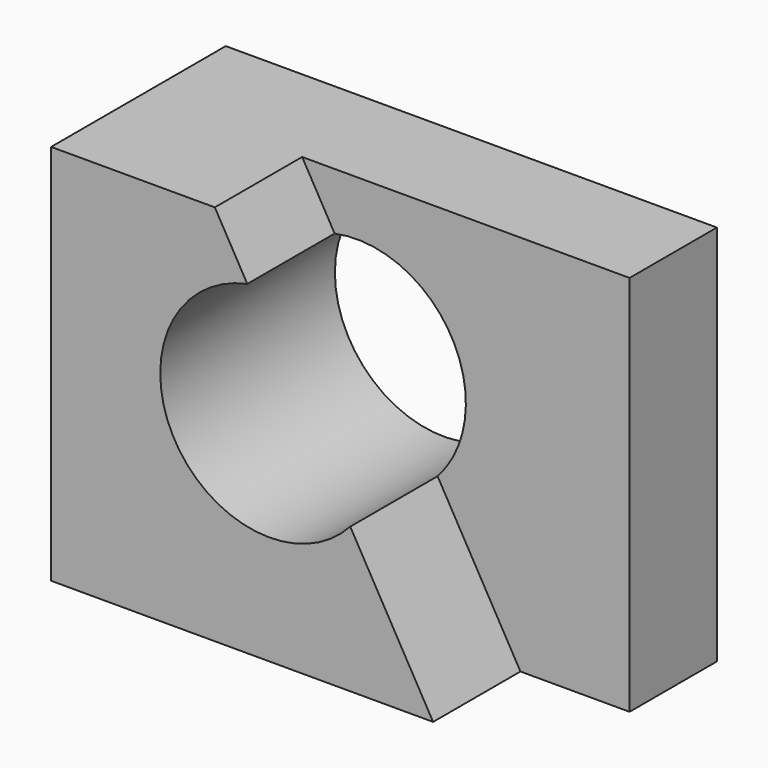
from build123d import *

# Parameters (mm, degrees)
F0_W     = 114.3
F0_H     = 88.9
F1_DEPTH = 50.8
F3_DEPTH = 25.4
F4_R     = 25.4
F5_DEPTH = 50.8


with BuildPart() as f1:
    # F0 (on Front) → F1 (new body)
    with BuildSketch(Plane.XZ):
        with Locations((18.630486, 6.014819)):
            Rectangle(F0_W, F0_H)
    extrude(amount=F1_DEPTH)

    # F2 (on face) → F3 (cut)
    with BuildSketch(Plane.XZ.offset(50.8)):
        Polygon((75.780486, 50.464819), (-0.419514, 50.464819), (50.380486, -38.435181), (75.780486, -38.435181), align=None)
    extrude(amount=-F3_DEPTH, mode=Mode.SUBTRACT)

    # F4 (on face) → F5 (cut)
    with BuildSketch(Plane(origin=(0, 0, 0), x_dir=(-1, 0, 0), z_dir=(0, 1, 0))):
        with Locations((-12.280486, 12.364819)):
            Circle(F4_R)
    extrude(amount=-F5_DEPTH, mode=Mode.SUBTRACT)


solid = f1.part
